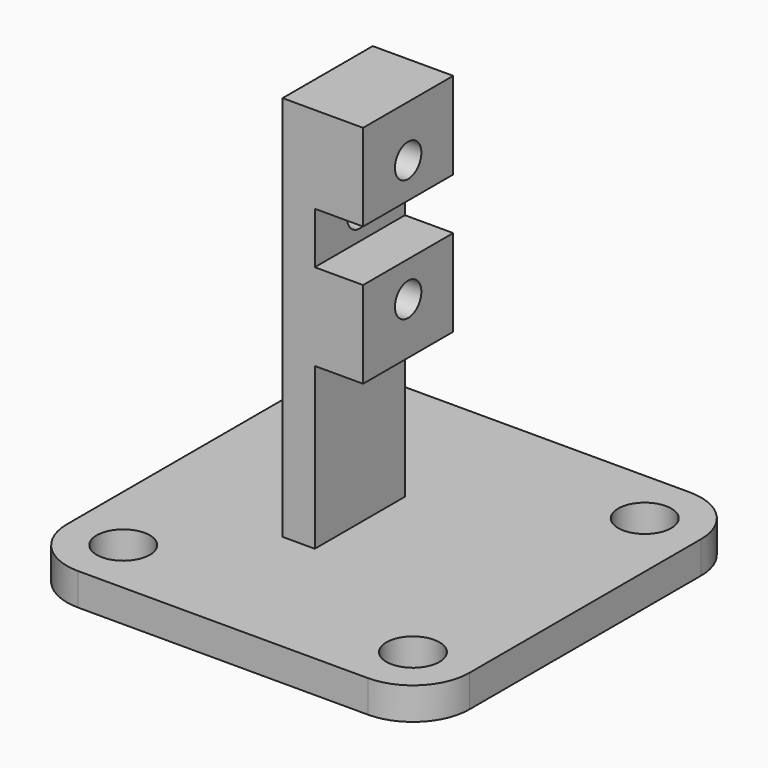
from build123d import *

# Parameters (mm, degrees)
F0_W      = 25
F0_H      = 25
F1_DEPTH  = 2
F2_R      = 1.65
F6_DEPTH  = 3
F3_R      = 1.65
F7_DEPTH  = 3
F4_R      = 1.65
F8_DEPTH  = 3
F5_R      = 1.65
F9_DEPTH  = 3
F10_R     = 3.5
F11_W     = 2
F11_H     = 7
F12_DEPTH = 23
F14_W     = 7
F14_H     = 12
F15_DEPTH = 3
F16_W     = 7
F16_H     = 3.2
F17_DEPTH = 3
F19_R     = 1.025
F20_DEPTH = 6
F18_R     = 1.025
F21_DEPTH = 6
F13_R     = 1
F22_DEPTH = 3
F23_SIZE  = 1
F24_DEPTH = 1
F25_DEPTH = 1


with BuildPart() as f1:
    # F0 (on Top) → F1 (new body)
    with BuildSketch(Plane.XY):
        with Locations((12.5, 12.5)):
            Rectangle(F0_W, F0_H)
    extrude(amount=F1_DEPTH)

    # F2 (on face) → F6 (cut)
    with BuildSketch(Plane.XY.offset(2)):
        with Locations((3.5, 21.5)):
            Circle(F2_R)
    extrude(amount=-F6_DEPTH, mode=Mode.SUBTRACT)

    # F3 (on face) → F7 (cut)
    with BuildSketch(Plane.XY.offset(2)):
        with Locations((21.5, 21.5)):
            Circle(F3_R)
    extrude(amount=-F7_DEPTH, mode=Mode.SUBTRACT)

    # F4 (on face) → F8 (cut)
    with BuildSketch(Plane.XY.offset(2)):
        with Locations((3.5, 3.5)):
            Circle(F4_R)
    extrude(amount=-F8_DEPTH, mode=Mode.SUBTRACT)

    # F5 (on face) → F9 (cut)
    with BuildSketch(Plane.XY.offset(2)):
        with Locations((21.5, 3.5)):
            Circle(F5_R)
    extrude(amount=-F9_DEPTH, mode=Mode.SUBTRACT)

    # F10
    f10_edges = [f1.edges().sort_by_distance(p)[0] for p in [
        (0, 0, 1),
        (0, 25, 1),
        (25, 25, 1),
        (25, 0, 1),
    ]]
    fillet(f10_edges, radius=F10_R)

    # F11 (on face) → F12 (join)
    with BuildSketch(Plane.XY.offset(2)):
        with Locations((10, 12.5)):
            Rectangle(F11_W, F11_H)
    extrude(amount=F12_DEPTH)

    # F14 (on face) → F15 (join)
    with BuildSketch(Plane.YZ.offset(11)):
        with Locations((12.5, 19)):
            Rectangle(F14_W, F14_H)
    extrude(amount=F15_DEPTH)

    # F16 (on face) → F17 (cut)
    with BuildSketch(Plane.YZ.offset(14)):
        with Locations((12.5, 19)):
            Rectangle(F16_W, F16_H)
    extrude(amount=-F17_DEPTH, mode=Mode.SUBTRACT)

    # F19 (on face) → F20 (cut)
    with BuildSketch(Plane.YZ.offset(14)):
        with Locations((12.5, 15.2)):
            Circle(F19_R)
    extrude(amount=-F20_DEPTH, mode=Mode.SUBTRACT)

    # F18 (on face) → F21 (cut)
    with BuildSketch(Plane.YZ.offset(14)):
        with Locations((12.5, 22.8)):
            Circle(F18_R)
    extrude(amount=-F21_DEPTH, mode=Mode.SUBTRACT)

    # F13 (on face) → F22 (cut)
    with BuildSketch(Plane.YZ.offset(11)):
        with Locations((12.5, 19.1)):
            Circle(F13_R)
    extrude(amount=-F22_DEPTH, mode=Mode.SUBTRACT)

    # F23
    f23_edges = [f1.edges().sort_by_distance(p)[0] for p in [
        (9, 11.5, 19.1),
    ]]
    chamfer(f23_edges, length=F23_SIZE)

    # F24 (add): a face of the model
    f24_faces = [f1.faces().sort_by_distance(p)[0] for p in [
        (11.5, 12.5, 25),
    ]]
    extrude(f24_faces, amount=F24_DEPTH)

    # F25 (add): a face of the model
    f25_faces = [f1.faces().sort_by_distance(p)[0] for p in [
        (12.5, 12.5, 13),
    ]]
    extrude(f25_faces, amount=F25_DEPTH)


solid = f1.part
